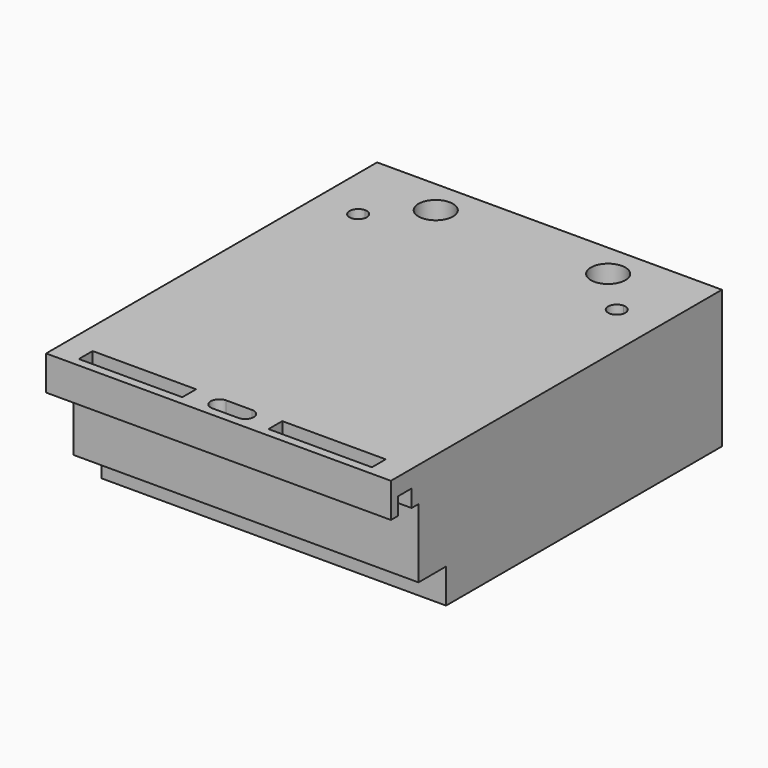
from build123d import *

# Parameters (mm, degrees)
F0_W      = 127
F0_H      = 152.4
F1_DEPTH  = 50.8
F3_DEPTH  = 127.001
F5_DEPTH  = 12.7
F6_W      = 38.1
F6_H      = 6.35
F7_DEPTH  = 6.351
F8_R      = 6.35
F9_DEPTH  = 50.801
F11_DEPTH = 50.801


with BuildPart() as f1:
    # F0 (on Top) → F1 (new body)
    with BuildSketch(Plane.XY):
        Rectangle(F0_W, F0_H)
    extrude(amount=-F1_DEPTH)

    # F2 (on face) → F3 (cut, through all)
    with BuildSketch(Plane.YZ.offset(63.5)):
        Polygon((-76.2, -12.7), (-76.2, -50.8), (-50.8, -50.8), (-50.8, -38.1), (-63.5, -38.1), (-63.5, -12.7), (-66.675, -12.7), (-66.675, -6.35), (-73.025, -6.35), (-73.025, -12.7), align=None)
    extrude(amount=-F3_DEPTH, mode=Mode.SUBTRACT)

    # F4 (on face) → F5 (cut)
    with BuildSketch(Plane(origin=(0, 0, -38.1), x_dir=(1, 0, 0), z_dir=(0, 0, -1))):
        with BuildLine():
            ThreePointArc((-47.625, 57.15), (-50.8, 60.325), (-53.975, 57.15))
            Line((-53.975, 57.15), (-47.625, 57.15))
        make_face()
        with BuildLine():
            ThreePointArc((53.975, 57.15), (50.8, 60.325), (47.625, 57.15))
            Line((47.625, 57.15), (53.975, 57.15))
        make_face()
        with BuildLine():
            Line((53.975, 57.15), (47.625, 57.15))
            ThreePointArc((47.625, 57.15), (50.8, 53.975), (53.975, 57.15))
        make_face()
        with BuildLine():
            ThreePointArc((3.175, 57.15), (0, 60.325), (-3.175, 57.15))
            Line((-3.175, 57.15), (3.175, 57.15))
        make_face()
        with BuildLine():
            Line((3.175, 57.15), (-3.175, 57.15))
            ThreePointArc((-3.175, 57.15), (0, 53.975), (3.175, 57.15))
        make_face()
        with BuildLine():
            Line((-47.625, 57.15), (-53.975, 57.15))
            ThreePointArc((-53.975, 57.15), (-50.8, 53.975), (-47.625, 57.15))
        make_face()
    extrude(amount=-F5_DEPTH, mode=Mode.SUBTRACT)

    # F6 (on face) → F7 (cut, through all)
    with BuildSketch(Plane(origin=(0, 0, -6.35), x_dir=(1, 0, 0), z_dir=(0, 0, -1))):
        with Locations((-34.925, 69.85)):
            Rectangle(F6_W, F6_H)
        with Locations((34.925, 69.85)):
            Rectangle(F6_W, F6_H)
    extrude(amount=-F7_DEPTH, mode=Mode.SUBTRACT)

    # F8 (on face) → F9 (cut, through all)
    with BuildSketch(Plane.XY):
        with BuildLine():
            ThreePointArc((-38.1, 63.5), (-31.75, 57.15), (-25.4, 63.5))
            ThreePointArc((-25.4, 63.5), (-31.75, 69.85), (-38.1, 63.5))
        make_face()
        with BuildLine():
            ThreePointArc((-44.45, 47.625), (-45.379936, 49.870064), (-47.625, 50.8))
            ThreePointArc((-47.625, 50.8), (-49.870064, 45.379936), (-44.45, 47.625))
        make_face()
        with Locations((31.75, 63.5)):
            Circle(F8_R)
        with BuildLine():
            ThreePointArc((50.8, 47.625), (49.870064, 49.870064), (47.625, 50.8))
            ThreePointArc((47.625, 50.8), (45.379936, 45.379936), (50.8, 47.625))
        make_face()
    extrude(amount=-F9_DEPTH, mode=Mode.SUBTRACT)

    # F10 (on face) → F11 (cut, through all)
    with BuildSketch(Plane.XY):
        with BuildLine():
            Line((4.7625, -66.675), (-4.7625, -66.675))
            ThreePointArc((-4.7625, -66.675), (-7.9375, -69.85), (-4.7625, -73.025))
            Line((-4.7625, -73.025), (4.7625, -73.025))
            ThreePointArc((4.7625, -73.025), (7.9375, -69.85), (4.7625, -66.675))
        make_face()
    extrude(amount=-F11_DEPTH, mode=Mode.SUBTRACT)


solid = f1.part
